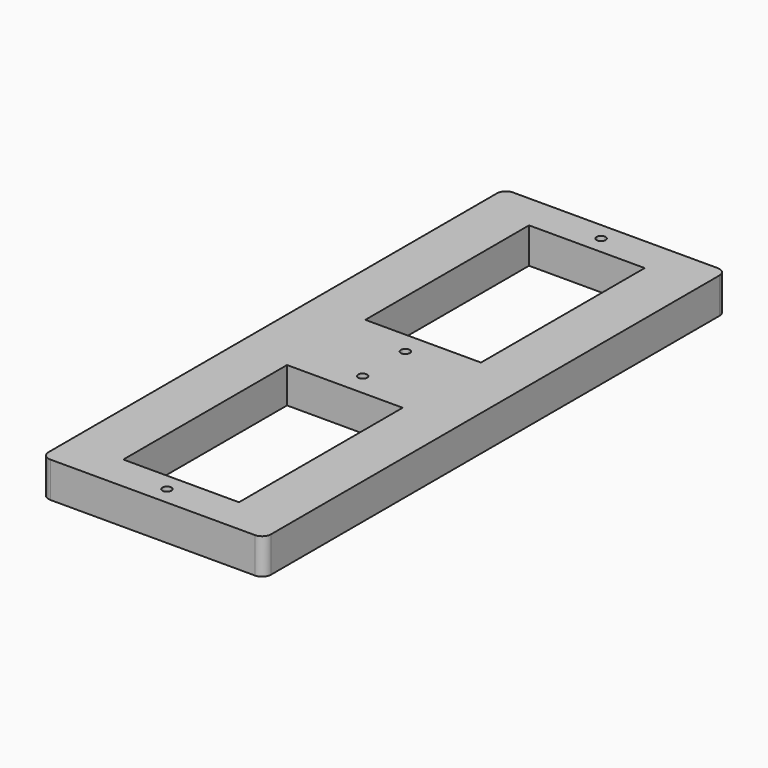
from build123d import *

# Parameters (mm, degrees)
F0_W     = 25
F0_H     = 65
F0_W_2   = 13
F0_H_2   = 23
F1_DEPTH = 4
F4_D     = 1
F5_R     = 1


with BuildPart() as f1:
    # F0 (on Top) → F1 (new body)
    with BuildSketch(Plane.XY):
        Rectangle(F0_W, F0_H)
        with Locations((0, -17)):
            Rectangle(F0_W_2, F0_H_2, mode=Mode.SUBTRACT)
        with Locations((0, 17)):
            Rectangle(F0_W_2, F0_H_2, mode=Mode.SUBTRACT)
    extrude(amount=F1_DEPTH)

    # F4 (through all)
    with Locations(Plane(origin=(0, 0, 0), x_dir=(1, 0, 0), z_dir=(0, 0, -1))):
        with Locations((0, 30.5), (0, 3), (0, -3), (0, -30.5)):
            Hole(F4_D / 2)

    # F5
    f5_edges = [f1.edges().sort_by_distance(p)[0] for p in [
        (-12.5, 32.5, 2),
        (12.5, 32.5, 2),
        (-12.5, -32.5, 2),
        (12.5, -32.5, 2),
    ]]
    fillet(f5_edges, radius=F5_R)


solid = f1.part
